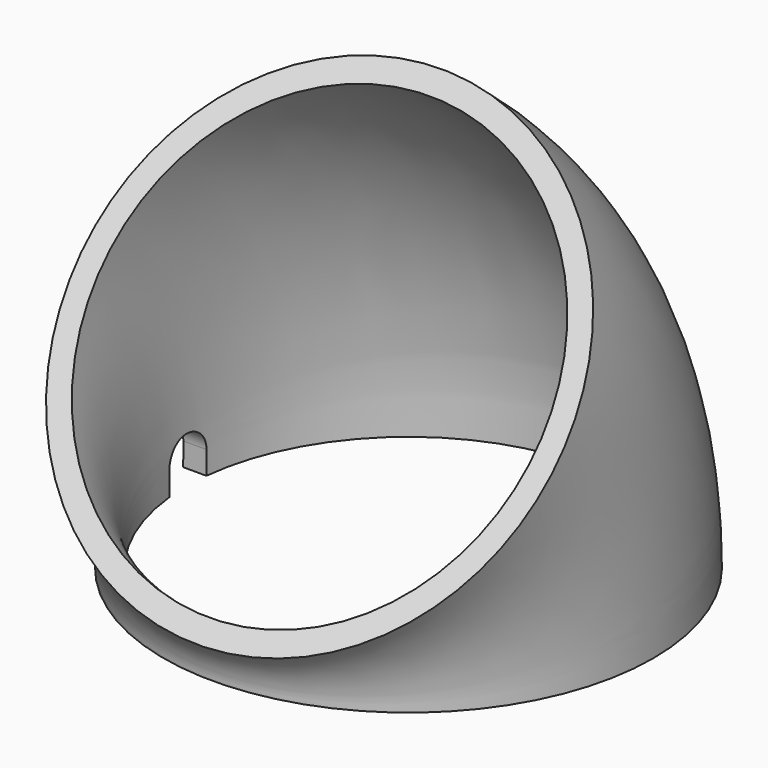
from build123d import *

# Parameters (mm, degrees)
F0_R     = 53
F0_R_2   = 48
F4_DEPTH = 53.001


with BuildPart() as f2:
    # F2: sweep along a path in F1
    with BuildLine(Plane.YZ) as f2_path:
        ThreePointArc((0, 0), (-6.325057, 27.741683), (-24.050031, 50))
    # F0 (on Top) → F2 (sweep)
    with BuildSketch(Plane.XY):
        Circle(F0_R)
        Circle(F0_R_2, mode=Mode.SUBTRACT)
    sweep(path=f2_path.line)

    # F3 (on Right) → F4 (cut, through all)
    with BuildSketch(Plane.YZ):
        with BuildLine():
            Line((-5, 5), (-5, 0))
            ThreePointArc((-5, 0), (0, -5), (5, 0))
            Line((5, 0), (5, 5))
            ThreePointArc((5, 5), (0, 10), (-5, 5))
        make_face()
    extrude(amount=-F4_DEPTH, mode=Mode.SUBTRACT)


solid = f2.part
